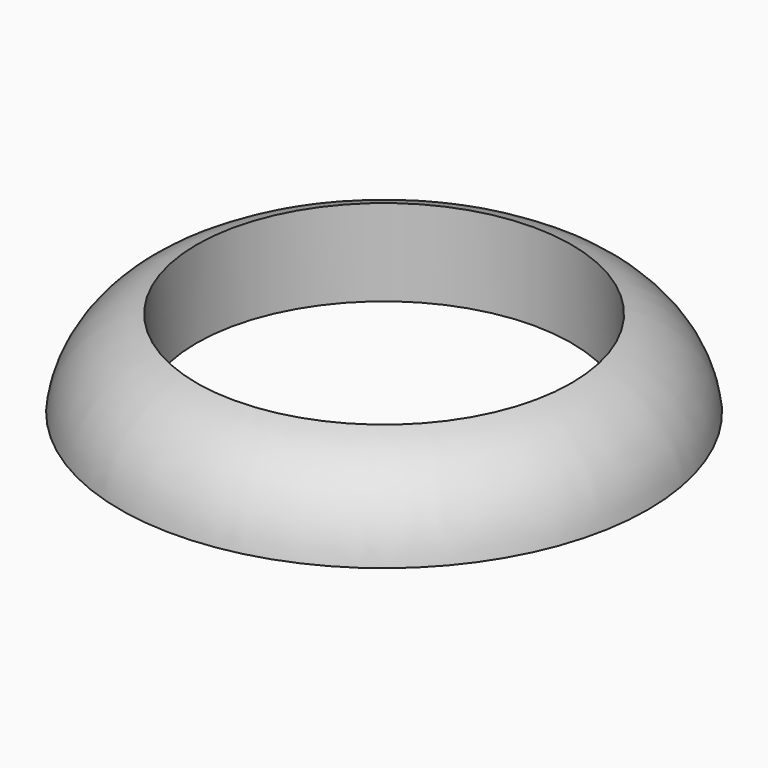
from build123d import *


with BuildPart() as f2:
    # F0 (on Front) → F2 (revolve)
    with BuildSketch(Plane.XZ):
        with BuildLine():
            ThreePointArc((27.981637, 0), (18.806971, 20.073836), (0, 31.625081))
            Line((0, 31.625081), (0, 0))
            Line((0, 0), (27.981637, 0))
        make_face()
    revolve(axis=Axis((-68.496719, 0, 10.638852), (0, 0, -1)))


solid = f2.part
